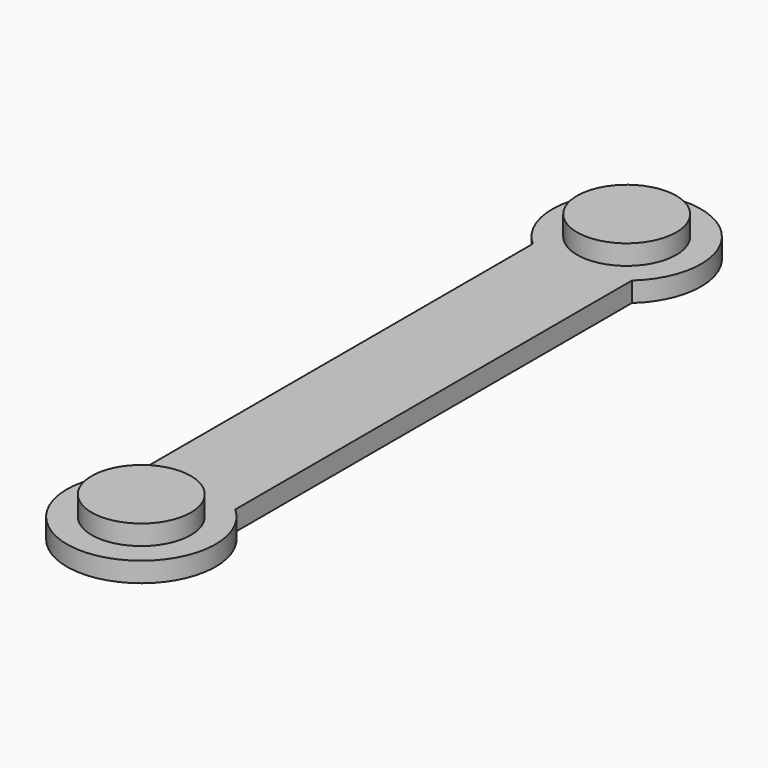
from build123d import *

# Parameters (mm, degrees)
F1_DEPTH = 5.08
F2_R     = 12.7
F3_DEPTH = 5.08


with BuildPart() as f1:
    # F0 (on Top) → F1 (new body)
    with BuildSketch(Plane.XY):
        with BuildLine():
            ThreePointArc((25.4, 0), (12.7, 4.8509683429), (0, 0))
            Line((0, 0), (25.4, 0))
        make_face()
        with BuildLine():
            Line((0, 127), (0, 0))
            ThreePointArc((0, 0), (12.7, 4.8509683429), (25.4, 0))
            Line((25.4, 0), (25.4, 127))
            ThreePointArc((25.4, 127), (12.7, 122.1490316571), (0, 127))
        make_face()
        with BuildLine():
            Line((25.4, 0), (0, 0))
            ThreePointArc((0, 0), (4.9228700667, -31.5892228579), (31.75, -14.1990316571))
            ThreePointArc((31.75, -14.1990316571), (30.0901912008, -6.4219017238), (25.4, 0))
        make_face()
        with BuildLine():
            ThreePointArc((31.75, 141.1990316571), (4.9228700667, 158.5892228579), (0, 127))
            Line((0, 127), (25.4, 127))
            ThreePointArc((25.4, 127), (30.0901912008, 133.4219017238), (31.75, 141.1990316571))
        make_face()
        with BuildLine():
            Line((25.4, 127), (0, 127))
            ThreePointArc((0, 127), (12.7, 122.1490316571), (25.4, 127))
        make_face()
    extrude(amount=F1_DEPTH)

    # F2 (on face) → F3 (join)
    with BuildSketch(Plane.XY.offset(5.08)):
        with Locations((12.7, -14.1990316571)):
            Circle(F2_R)
        with Locations((12.7, 141.1990316571)):
            Circle(F2_R)
    extrude(amount=F3_DEPTH)


solid = f1.part
